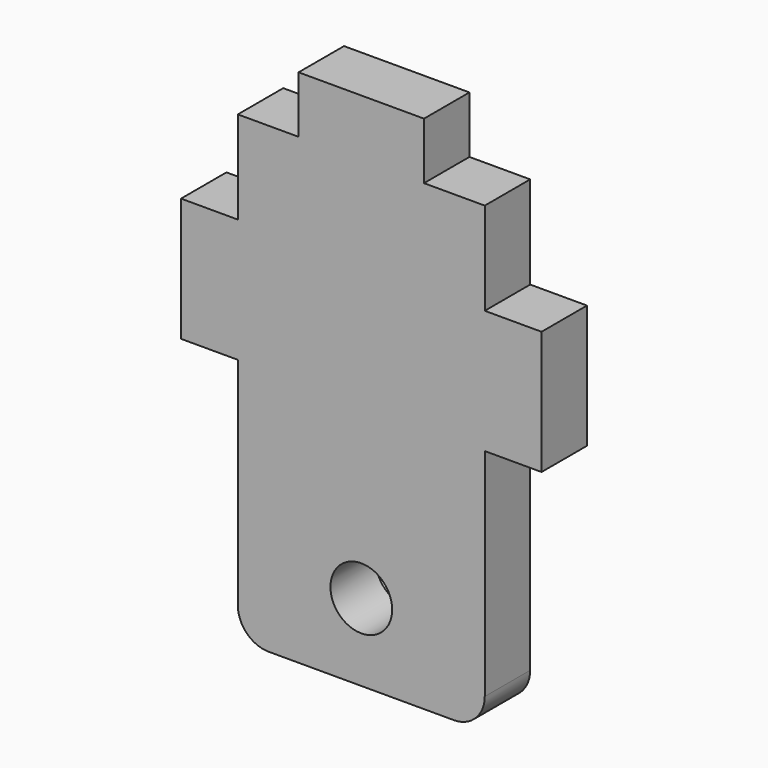
from build123d import *

# Parameters (mm, degrees)
F0_R     = 3.175
F1_DEPTH = 5.842
F2_R     = 3.175


with BuildPart() as f1:
    # F0 (on Front) → F1 (new body)
    with BuildSketch(Plane.XZ):
        Polygon((-6.45, 25.4), (-12.7, 25.4), (-12.7, 15.875), (-18.542, 15.875), (-18.542, 3.175), (-12.7, 3.175), (-12.7, -6.35), (-12.7, -22.225), (12.7, -22.225), (12.7, -6.35), (12.7, 3.175), (18.542, 3.175), (18.542, 15.875), (12.7, 15.875), (12.7, 25.4), (6.45, 25.4), (6.45, 31.242), (-6.45, 31.242), align=None)
        with Locations((0, -14.2875)):
            Circle(F0_R, mode=Mode.SUBTRACT)
    extrude(amount=F1_DEPTH)

    # F2
    f2_edges = [f1.edges().sort_by_distance(p)[0] for p in [
        (-12.7, -2.921, -22.225),
        (12.7, -2.921, -22.225),
    ]]
    fillet(f2_edges, radius=F2_R)


solid = f1.part
